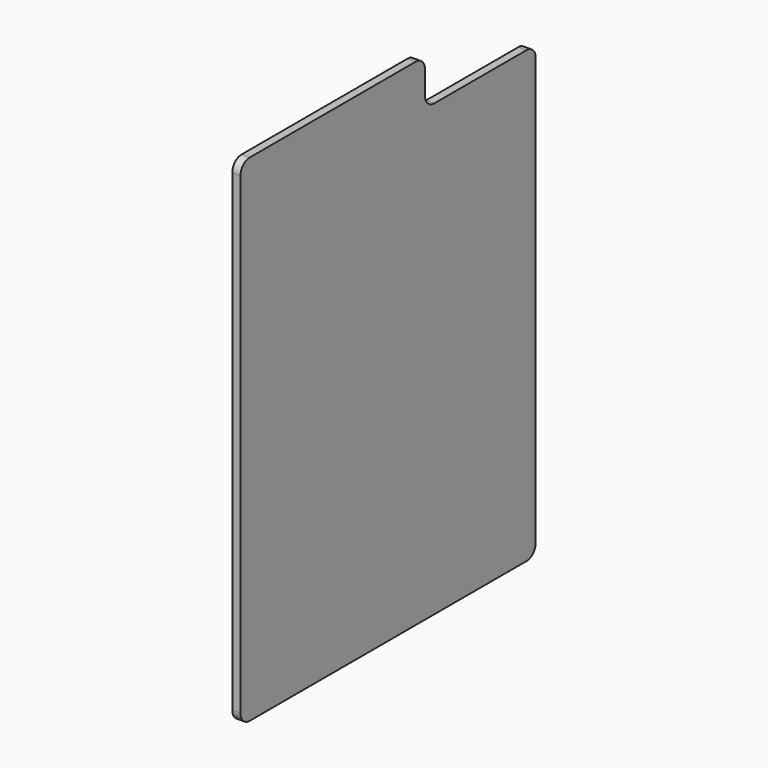
from build123d import *

# Parameters (mm, degrees)
F0_W     = 60
F0_H     = 195
F1_DEPTH = 3.55
F2_R     = 5


with BuildPart() as f1:
    # F0 (on Right) → F1 (new body)
    with BuildSketch(Plane.YZ):
        Polygon((50, 87.5), (50, 107.5), (-50, 107.5), (-50, -107.5), (50, -107.5), align=None)
        with Locations((80, -10)):
            Rectangle(F0_W, F0_H)
    extrude(amount=F1_DEPTH)

    # F2
    f2_edges = [f1.edges().sort_by_distance(p)[0] for p in [
        (1.775, 50, 87.5),
        (1.775, 50, 107.5),
        (1.775, 110, 87.5),
        (1.775, -50, 107.5),
        (1.775, 110, -107.5),
        (1.775, -50, -107.5),
    ]]
    fillet(f2_edges, radius=F2_R)


solid = f1.part
